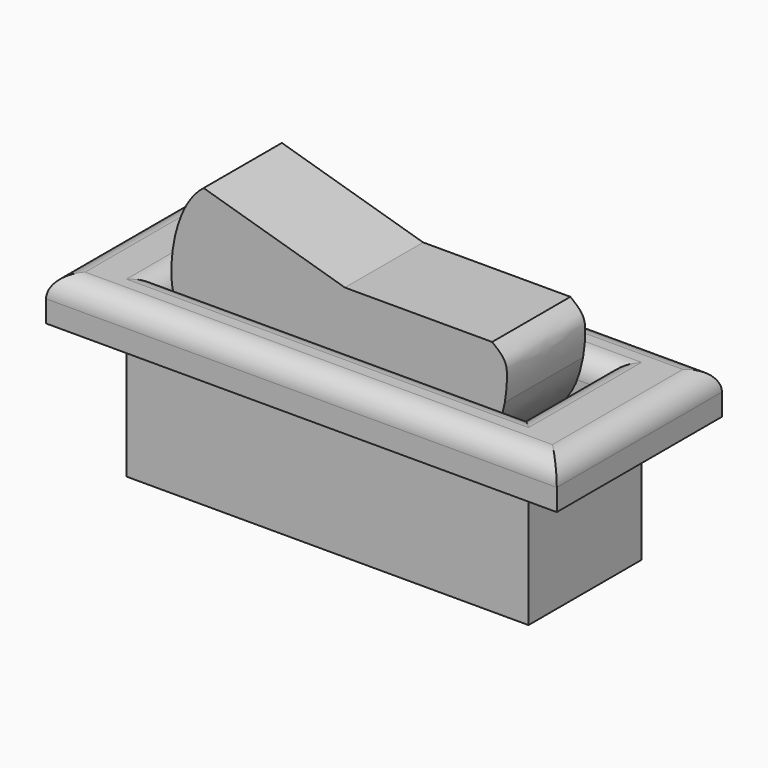
from build123d import *

# Parameters (mm, degrees)
F0_W     = 18.5
F0_H     = 6.5
F0_W_2   = 16.5
F0_H_2   = 4.5
F1_DEPTH = 6
F2_W     = 23.5
F2_H     = 9.5
F2_W_2   = 18.5
F2_H_2   = 6.5
F2_W_3   = 16.5
F2_H_3   = 4.5
F3_DEPTH = 2
F5_DEPTH = 4.5
F6_R     = 1


with BuildPart() as f1:
    # F0 (on Top) → F1 (new body)
    with BuildSketch(Plane.XY):
        Rectangle(F0_W, F0_H)
        Rectangle(F0_W_2, F0_H_2, mode=Mode.SUBTRACT)
    extrude(amount=F1_DEPTH)

    # F2 (on face) → F3 (join)
    with BuildSketch(Plane.XY.offset(6)):
        Rectangle(F2_W, F2_H)
        Rectangle(F2_W_2, F2_H_2, mode=Mode.SUBTRACT)
        Rectangle(F2_W_2, F2_H_2)
        Rectangle(F2_W_3, F2_H_3, mode=Mode.SUBTRACT)
    extrude(amount=F3_DEPTH)

    # F6
    f6_edges = [f1.edges().sort_by_distance(p)[0] for p in [
        (0, 4.75, 8),
        (-11.75, 0, 8),
        (0, -4.75, 8),
        (11.75, 0, 8),
        (0, 2.25, 8),
        (8.25, 0, 8),
        (0, -2.25, 8),
        (-8.25, 0, 8),
    ]]
    fillet(f6_edges, radius=F6_R)


with BuildPart() as f5:
    # F4 (on face) → F5 (new body, through all)
    with BuildSketch(Plane.XZ.offset(-2.25)):
        with BuildLine():
            Line((6.777, 10.2598406955), (0, 10.2598406955))
            Line((0, 10.2598406955), (-6.5, 12.1768942129))
            add(Edge.make_bspline(
                [(-6.5, 12.1768942129), (-7.7057169905, 11.257187587), (-8.0602164106, 9.1413128094), (-7.9747951659, 8)],
                knots=[0, 0, 0, 0, 3.994302847, 3.994302847, 3.994302847, 3.994302847], degree=3))
            Line((-7.9747951659, 8), (7.3609953707, 8))
            add(Edge.make_bspline(
                [(6.777, 10.2598406955), (7.3669994968, 9.8072325619), (7.516710158, 9.5268105324), (7.4284491197, 8.3819437932), (7.3609953707, 8)],
                knots=[0, 0, 0, 0, 0.3715223911, 0.5386986046, 0.5386986046, 0.5386986046, 0.5386986046], degree=3))
        make_face()
        with BuildLine():
            Line((7.3609953707, 8), (-7.9747951659, 8))
            add(Edge.make_bspline(
                [(-7.9747951659, 8), (-7.9532875572, 7.7126369514), (-7.9038913414, 7.4870558968), (-7.8331715094, 7.3579053432)],
                knots=[3.994302847, 3.994302847, 3.994302847, 3.994302847, 5, 5, 5, 5], degree=3))
            Line((-7.8331715094, 7.3579053432), (5.5272389137, 5.4185498317))
            add(Edge.make_bspline(
                [(7.3609953707, 8), (7.174865371, 6.9460749168), (6.683687286, 5.6892079201), (5.5272389137, 5.4185498317)],
                knots=[0.5386986046, 0.5386986046, 0.5386986046, 0.5386986046, 1, 1, 1, 1], degree=3))
        make_face()
    extrude(amount=F5_DEPTH)


solid = Compound([f1.part, f5.part])
